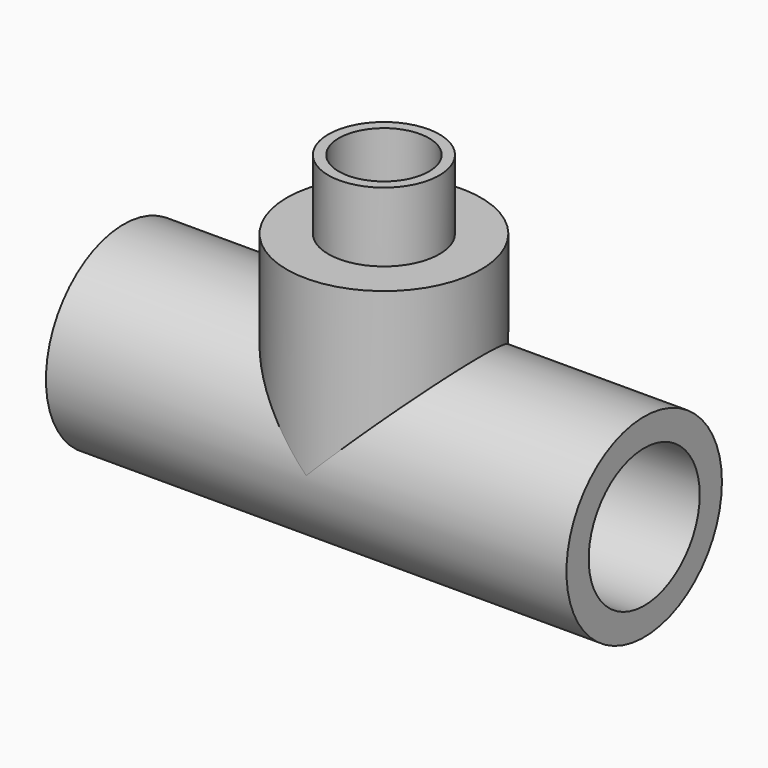
from build123d import *

# Parameters (mm, degrees)
F0_W     = 75
F0_H     = 4
F4_R     = 10
F5_DEPTH = 75.001


with BuildPart() as f1:
    # F0 (on Top) → F1 (revolve)
    with BuildSketch(Plane.XY):
        with Locations((12.5, 12)):
            Rectangle(F0_W, F0_H)
    revolve(axis=Axis((-0.954778, 0, 0), (1, 0, 0)))

    # F2 (on Front) → F3 (revolve)
    with BuildSketch(Plane.XZ):
        Polygon((-1.5, 25), (-1.5, 0), (6, 0), (6, 35), (4.5, 35), (4.5, 25), align=None)
    revolve(axis=Axis((12.5, 0, -7.054515), (0, 0, -1)))

    # F4 (on face) → F5 (cut, through all)
    with BuildSketch(Plane.YZ.offset(50)):
        Circle(F4_R)
    extrude(amount=-F5_DEPTH, mode=Mode.SUBTRACT)


solid = f1.part
